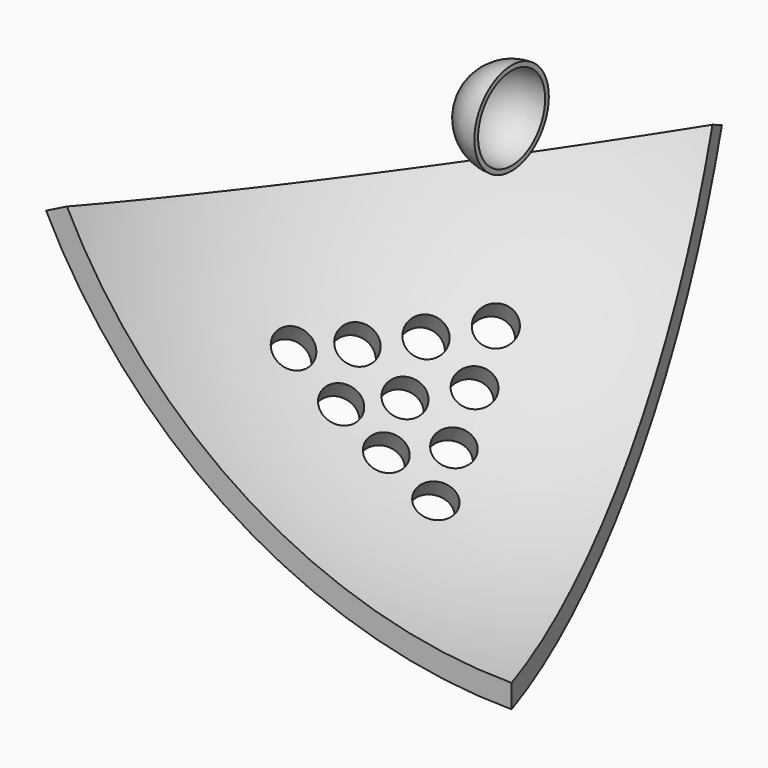
from build123d import *

# Parameters (mm, degrees)
BOX_W             = 20
BOX_H             = 20
BOX_DEPTH         = 20
BOX001_W          = 400
BOX001_H          = 400
BOX001_DEPTH      = 400
BOX002_W          = 400
BOX002_H          = 400
BOX002_DEPTH      = 400
BOX003_W          = 400
BOX003_H          = 400
BOX003_DEPTH      = 400
BOX004_W          = 400
BOX004_H          = 400
BOX004_DEPTH      = 400
BOX005_W          = 400
BOX005_H          = 400
BOX005_DEPTH      = 400
BOX006_W          = 400
BOX006_H          = 400
BOX006_DEPTH      = 400
BOX007_W          = 400
BOX007_H          = 400
BOX007_DEPTH      = 400
SKETCH_R          = 4
POCKET_DEPTH      = 46.916976
POCKET_DEPTH_BACK = 87.022417


with BuildPart() as body:
    # Sphere → Sphere (revolve)
    with BuildSketch(Plane.XZ):
        with BuildLine():
            ThreePointArc((0, -10), (10, 0), (0, 10))
            Line((0, 10), (0, -10))
        make_face()
    revolve(axis=Axis((0, 0, 0), (0, 0, 1)))

    # Sphere001 → Sphere001 (revolve, cut)
    with BuildSketch(Plane.XZ):
        with BuildLine():
            ThreePointArc((0, -9), (9, 0), (0, 9))
            Line((0, 9), (0, -9))
        make_face()
    revolve(axis=Axis((0, 0, 0), (0, 0, 1)), mode=Mode.SUBTRACT)

    # Box → Box (cut)
    with BuildSketch(Plane(origin=(0, -10, -10), x_dir=(0, 0, 1), z_dir=(0, 1, 0))):
        with Locations((10, 10)):
            Rectangle(BOX_W, BOX_H)
    extrude(amount=BOX_DEPTH, mode=Mode.SUBTRACT)


with BuildPart() as body002:
    # Sphere002 → Sphere002 (revolve)
    with BuildSketch(Plane.XZ):
        with BuildLine():
            ThreePointArc((0, -111.803399), (111.803399, 0), (0, 111.803399))
            Line((0, 111.803399), (0, -111.803399))
        make_face()
    revolve(axis=Axis((0, 0, 0), (0, 0, 1)))

    # Sphere003 → Sphere003 (revolve, cut)
    with BuildSketch(Plane.XZ):
        with BuildLine():
            ThreePointArc((0, -106.803399), (106.803399, 0), (0, 106.803399))
            Line((0, 106.803399), (0, -106.803399))
        make_face()
    revolve(axis=Axis((0, 0, 0), (0, 0, 1)), mode=Mode.SUBTRACT)

    # Box001 → Box001 (cut)
    with BuildSketch(Plane(origin=(-154.304859, -172.312072, -71.812889), x_dir=(0.951057, 0.309017, 0), z_dir=(0.16246, -0.5, 0.850651))):
        with Locations((200, 200)):
            Rectangle(BOX001_W, BOX001_H)
    extrude(amount=BOX001_DEPTH, mode=Mode.SUBTRACT)

    # Box002 → Box002 (cut)
    with BuildSketch(Plane(origin=(-298.829142, 30.101515, -138.479556), x_dir=(0.587785, -0.809017, 0), z_dir=(-0.425325, -0.309017, 0.850651))):
        with Locations((200, 200)):
            Rectangle(BOX002_W, BOX002_H)
    extrude(amount=BOX002_DEPTH, mode=Mode.SUBTRACT)

    # Box003 → Box003 (cut)
    with BuildSketch(Plane(origin=(-63.715041, 293.505283, -138.479556), x_dir=(-0.587785, -0.809017, 0), z_dir=(-0.425325, 0.309017, 0.850651))):
        with Locations((200, 200)):
            Rectangle(BOX003_W, BOX003_H)
    extrude(amount=BOX003_DEPTH, mode=Mode.SUBTRACT)

    # Box004 → Box004 (cut)
    with BuildSketch(Plane(origin=(259.451081, 151.294726, -138.479556), x_dir=(-0.951057, 0.309017, 0), z_dir=(0.16246, 0.5, 0.850651))):
        with Locations((200, 200)):
            Rectangle(BOX004_W, BOX004_H)
    extrude(amount=BOX004_DEPTH, mode=Mode.SUBTRACT)

    # Box005 → Box005 (cut)
    with BuildSketch(Plane(origin=(224.064628, -200, -138.479556), x_dir=(0, 1, 0), z_dir=(0.525731, 0, 0.850651))):
        with Locations((200, 200)):
            Rectangle(BOX005_W, BOX005_H)
    extrude(amount=BOX005_DEPTH, mode=Mode.SUBTRACT)

    # Box006 → Box006 (cut)
    with BuildSketch(Plane(origin=(-233.333333, 0, -253.934466), x_dir=(1, 0, 0), z_dir=(0, -1, 0))):
        with Locations((200, 200)):
            Rectangle(BOX006_W, BOX006_H)
    extrude(amount=BOX006_DEPTH, mode=Mode.SUBTRACT)

    # Box007 → Box007 (cut)
    with BuildSketch(Plane(origin=(51.502832, -158.509419, -253.934466), x_dir=(-0.309017, 0.951057, 0), z_dir=(0.951057, 0.309017, 0))):
        with Locations((200, 200)):
            Rectangle(BOX007_W, BOX007_H)
    extrude(amount=BOX007_DEPTH, mode=Mode.SUBTRACT)

    # Sketch (on DatumPlane) → Pocket (cut, two sides)
    with BuildSketch(Plane(origin=(-41.682532, 30.284133, -67.443754), x_dir=(-0.587785, -0.809017, 0), z_dir=(-0.491123, 0.356822, -0.794654))) as pocket_sk:
        with Locations((-16.85723, 9.733885)):
            Circle(SKETCH_R)
        with Locations((-4.94486, 9.89119)):
            Circle(SKETCH_R)
        with Locations((6.969811, 10.048526)):
            Circle(SKETCH_R)
        with Locations((18.280777, 10.19789)):
            Circle(SKETCH_R)
        with Locations((0.876219, -0.505885)):
            Circle(SKETCH_R)
        with Locations((-11.124223, -0.505885)):
            Circle(SKETCH_R)
        with Locations((-5.216197, -11.058258)):
            Circle(SKETCH_R)
        with Locations((6.402349, -10.376151)):
            Circle(SKETCH_R)
        with Locations((12.100949, -0.505885)):
            Circle(SKETCH_R)
        with Locations((0.309933, -20.928524)):
            Circle(SKETCH_R)
    extrude(amount=-POCKET_DEPTH, mode=Mode.SUBTRACT)
    extrude(pocket_sk.sketch, amount=POCKET_DEPTH_BACK, mode=Mode.SUBTRACT)


solid = Compound([body.part, body002.part])
